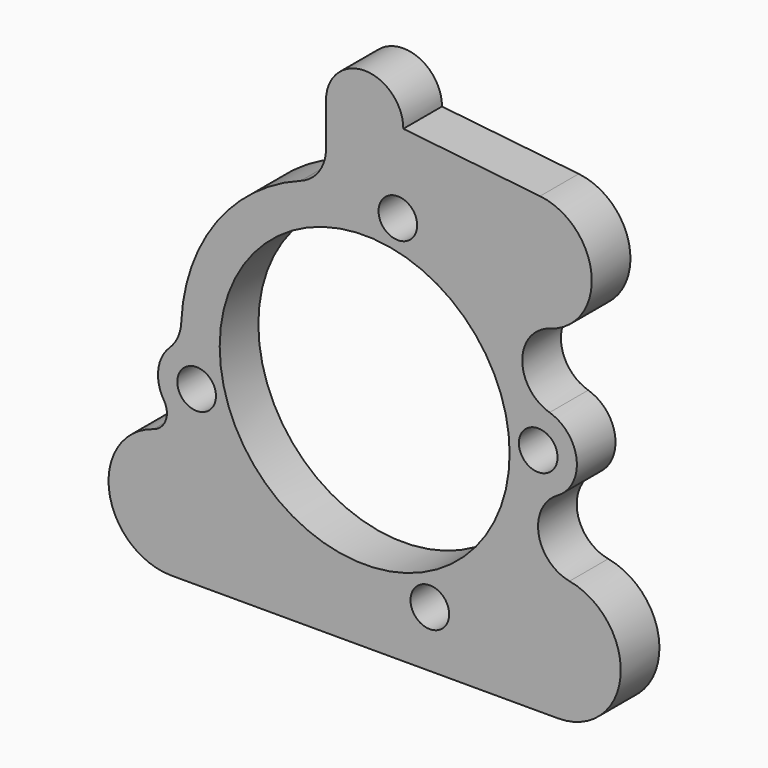
from build123d import *

# Parameters (mm, degrees)
F0_R     = 101.6
F0_R_2   = 762
F1_DEPTH = 254


with BuildPart() as f1:
    # F0 (on Front) → F1 (new body)
    with BuildSketch(Plane.XZ):
        with BuildLine():
            Line((-1016, -1143), (0, -1143))
            Line((0, -1143), (1016, -1143))
            ThreePointArc((1016, -1143), (1344.773524, -843.459579), (1077.054257, -488.293578))
            ThreePointArc((1077.054257, -488.293578), (914.278579, -322.525298), (1013.399338, -112.406))
            ThreePointArc((1013.399338, -112.406), (1114.109174, 86.409357), (971.899747, 258.00917))
            ThreePointArc((971.899747, 258.00917), (828.43173, 453.630149), (974.576156, 647.259812))
            ThreePointArc((974.576156, 647.259812), (1192.613764, 966.664887), (921.878618, 1242.821512))
            Line((921.878618, 1242.821512), (203.2, 1320.8))
            ThreePointArc((203.2, 1320.8), (0, 1524), (-203.2, 1320.8))
            Line((-203.2, 1320.8), (-203.2, 1095.44402))
            ThreePointArc((-203.2, 1095.44402), (-239.588636, 979.408643), (-335.721739, 904.932016))
            ThreePointArc((-335.721739, 904.932016), (-779.370976, 569.378541), (-964.16371, 44.714433))
            ThreePointArc((-964.16371, 44.714433), (-981.76065, -29.074654), (-1025.19406, -91.268068))
            ThreePointArc((-1025.19406, -91.268068), (-1085.054384, -212.952658), (-1055.029073, -345.198181))
            ThreePointArc((-1055.029073, -345.198181), (-1045.725119, -434.962424), (-1111.528835, -496.72045))
            ThreePointArc((-1111.528835, -496.72045), (-1342.650813, -861.083396), (-1016, -1143))
        make_face()
        with Locations((-883.242576, -236.664135)):
            Circle(F0_R, mode=Mode.SUBTRACT)
        with Locations((342.540269, -847.816917)):
            Circle(F0_R, mode=Mode.SUBTRACT)
        Circle(F0_R_2, mode=Mode.SUBTRACT)
        with Locations((912.172568, 63.78532)):
            Circle(F0_R, mode=Mode.SUBTRACT)
        with Locations((174.475745, 897.599897)):
            Circle(F0_R, mode=Mode.SUBTRACT)
    extrude(amount=F1_DEPTH)


solid = f1.part
